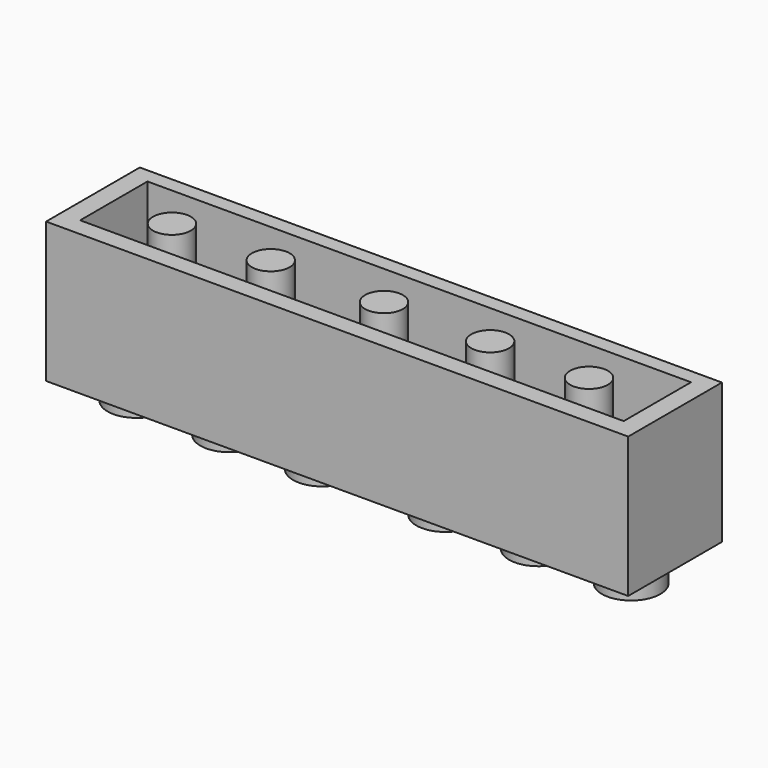
from build123d import *

# Parameters (mm, degrees)
F0_W      = 47.7
F0_H      = 9.6
F0_R      = 2.4
F1_DEPTH  = 9.5
F2_DEPTH  = 2.2
F3_W      = 44.25676
F3_H      = 6.6
F3_R      = 1.55
F3_R_2    = 2.072202
F1_FACE_W = 47.7
F1_FACE_H = 9.6
F4_DEPTH  = 2
F5_W      = 44.538753
F5_H      = 6.894205
F6_DEPTH  = 10.15
F7_R      = 1.55
F8_DEPTH  = 10.15


with BuildPart() as f1:
    # F0 (on Top) → F1 (new body)
    with BuildSketch(Plane.XY):
        Rectangle(F0_W, F0_H)
        with Locations((-20.25, 0)):
            Circle(F0_R, mode=Mode.SUBTRACT)
        with Locations((-12.65, 0)):
            Circle(F0_R, mode=Mode.SUBTRACT)
        with Locations((-5.05, 0)):
            Circle(F0_R, mode=Mode.SUBTRACT)
        with Locations((5.05, 0)):
            Circle(F0_R, mode=Mode.SUBTRACT)
        with Locations((12.65, 0)):
            Circle(F0_R, mode=Mode.SUBTRACT)
        with Locations((20.25, 0)):
            Circle(F0_R, mode=Mode.SUBTRACT)
        with Locations((-20.25, 0)):
            Circle(F0_R)
        with Locations((-12.65, 0)):
            Circle(F0_R)
        with Locations((-5.05, 0)):
            Circle(F0_R)
        with Locations((5.05, 0)):
            Circle(F0_R)
        with Locations((12.65, 0)):
            Circle(F0_R)
        with Locations((20.25, 0)):
            Circle(F0_R)
    extrude(amount=F1_DEPTH)

    # F0 (on Top) → F2 (join)
    with BuildSketch(Plane.XY):
        with Locations((-20.25, 0)):
            Circle(F0_R)
        with Locations((-12.65, 0)):
            Circle(F0_R)
        with Locations((-5.05, 0)):
            Circle(F0_R)
        with Locations((5.05, 0)):
            Circle(F0_R)
        with Locations((12.65, 0)):
            Circle(F0_R)
        with Locations((20.25, 0)):
            Circle(F0_R)
    extrude(amount=-F2_DEPTH)

    # F3 (on Top) + F1_face (on face) → F4 (join)
    with BuildSketch(Plane.XY):
        Rectangle(F3_W, F3_H)
        with Locations((-19.1, 0)):
            Circle(F3_R, mode=Mode.SUBTRACT)
        with Locations((-12.5, 0)):
            Circle(F3_R, mode=Mode.SUBTRACT)
        Circle(F3_R_2, mode=Mode.SUBTRACT)
        with Locations((12.524975, 0)):
            Circle(F3_R, mode=Mode.SUBTRACT)
        with Locations((19.124975, 0)):
            Circle(F3_R, mode=Mode.SUBTRACT)
    with BuildSketch(Plane.XY.offset(9.5)):
        Rectangle(F1_FACE_W, F1_FACE_H)
    extrude(amount=F4_DEPTH)

    # F5 (on face) → F6 (cut)
    with BuildSketch(Plane.XY.offset(11.5)):
        with Locations((0.013958, 0.144912)):
            Rectangle(F5_W, F5_H)
    extrude(amount=-F6_DEPTH, mode=Mode.SUBTRACT)

    # F7 (on face) → F8 (join)
    with BuildSketch(Plane.XY.offset(1.35)):
        with Locations((-17.37838, 0)):
            Circle(F7_R)
        with Locations((-9.27838, 0)):
            Circle(F7_R)
        Circle(F7_R)
        with Locations((8.69896, 0)):
            Circle(F7_R)
        with Locations((16.79896, 0)):
            Circle(F7_R)
    extrude(amount=F8_DEPTH)


solid = f1.part
